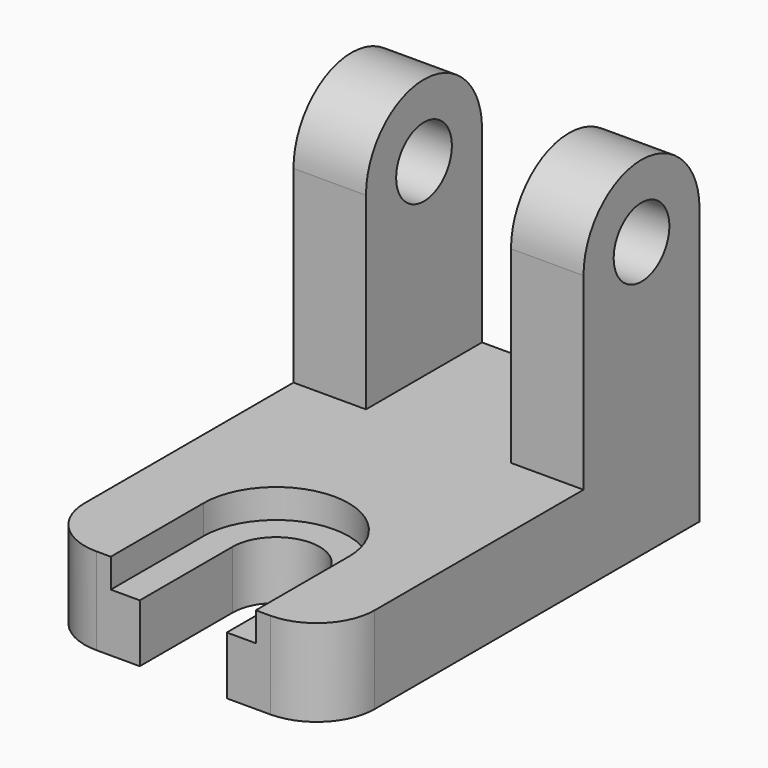
from build123d import *

# Parameters (mm, degrees)
F1_DEPTH = 25
F2_DEPTH = 12.5
F3_R     = 10
F4_W     = 15
F4_H     = 5
F5_DEPTH = 15
F4_W_2   = 5
F6_DEPTH = 5


with BuildPart() as f1:
    # F0 (on Right) → F1 (new body, symmetric)
    with BuildSketch(Plane.YZ):
        Polygon((-80, 0), (0, 0), (0, 15), (-25, 15), (-80, 15), align=None)
        with BuildLine():
            Line((-25, 15), (0, 15))
            Line((0, 15), (0, 47.5))
            ThreePointArc((0, 47.5), (-12.5, 35), (-25, 47.5))
            Line((-25, 47.5), (-25, 15))
        make_face()
        with BuildLine():
            ThreePointArc((-25, 47.5), (-12.5, 35), (0, 47.5))
            Line((0, 47.5), (-6.5, 47.5))
            ThreePointArc((-6.5, 47.5), (-12.5, 41.5), (-18.5, 47.5))
            Line((-18.5, 47.5), (-25, 47.5))
        make_face()
        with BuildLine():
            Line((-6.5, 47.5), (0, 47.5))
            ThreePointArc((0, 47.5), (-12.5, 60), (-25, 47.5))
            Line((-25, 47.5), (-18.5, 47.5))
            ThreePointArc((-18.5, 47.5), (-12.5, 53.5), (-6.5, 47.5))
        make_face()
    extrude(amount=F1_DEPTH, both=True)

    # F0 (on Right) → F2 (cut, symmetric)
    with BuildSketch(Plane.YZ):
        with BuildLine():
            Line((-25, 15), (0, 15))
            Line((0, 15), (0, 47.5))
            ThreePointArc((0, 47.5), (-12.5, 35), (-25, 47.5))
            Line((-25, 47.5), (-25, 15))
        make_face()
        with BuildLine():
            ThreePointArc((-25, 47.5), (-12.5, 35), (0, 47.5))
            Line((0, 47.5), (-6.5, 47.5))
            ThreePointArc((-6.5, 47.5), (-12.5, 41.5), (-18.5, 47.5))
            Line((-18.5, 47.5), (-25, 47.5))
        make_face()
        with BuildLine():
            ThreePointArc((-18.5, 47.5), (-12.5, 41.5), (-6.5, 47.5))
            Line((-6.5, 47.5), (-18.5, 47.5))
        make_face()
        with BuildLine():
            Line((-18.5, 47.5), (-6.5, 47.5))
            ThreePointArc((-6.5, 47.5), (-12.5, 53.5), (-18.5, 47.5))
        make_face()
        with BuildLine():
            Line((-6.5, 47.5), (0, 47.5))
            ThreePointArc((0, 47.5), (-12.5, 60), (-25, 47.5))
            Line((-25, 47.5), (-18.5, 47.5))
            ThreePointArc((-18.5, 47.5), (-12.5, 53.5), (-6.5, 47.5))
        make_face()
    extrude(amount=F2_DEPTH, both=True, mode=Mode.SUBTRACT)

    # F3
    f3_edges = [f1.edges().sort_by_distance(p)[0] for p in [
        (25, -80, 7.5),
        (-25, -80, 7.5),
    ]]
    fillet(f3_edges, radius=F3_R)

    # F4 (on face) → F5 (cut, through all)
    with BuildSketch(Plane.XY.offset(15)):
        with BuildLine():
            Line((-7.5, -60), (-7.5, -75))
            Line((-7.5, -75), (7.5, -75))
            Line((7.5, -75), (7.5, -60))
            ThreePointArc((7.5, -60), (0, -52.5), (-7.5, -60))
        make_face()
        with Locations((0, -77.5)):
            Rectangle(F4_W, F4_H)
    extrude(amount=-F5_DEPTH, mode=Mode.SUBTRACT)

    # F4 (on face) → F6 (cut)
    with BuildSketch(Plane.XY.offset(15)):
        with BuildLine():
            Line((-12.5, -75), (-7.5, -75))
            Line((-7.5, -75), (-7.5, -60))
            ThreePointArc((-7.5, -60), (0, -52.5), (7.5, -60))
            Line((7.5, -60), (7.5, -75))
            Line((7.5, -75), (12.5, -75))
            Line((12.5, -75), (12.5, -60))
            ThreePointArc((12.5, -60), (0, -47.5), (-12.5, -60))
            Line((-12.5, -60), (-12.5, -75))
        make_face()
        with Locations((-10, -77.5)):
            Rectangle(F4_W_2, F4_H)
        with Locations((10, -77.5)):
            Rectangle(F4_W_2, F4_H)
    extrude(amount=-F6_DEPTH, mode=Mode.SUBTRACT)


solid = f1.part
